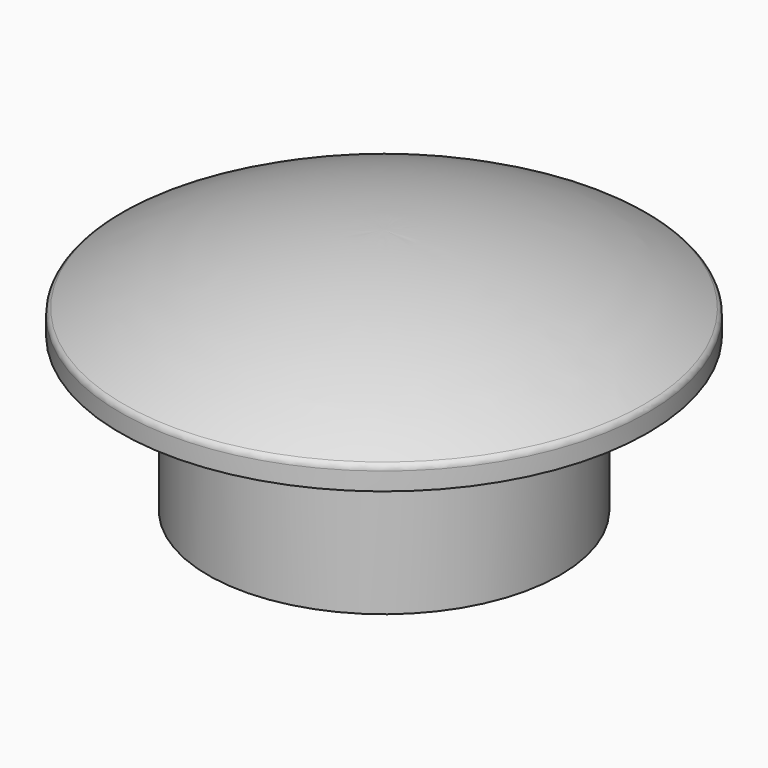
from build123d import *

# Parameters (mm, degrees)
F0_R     = 6.35
F1_DEPTH = 3.175
F4_R     = 0.254


with BuildPart() as f1:
    # F0 (on Top) → F1 (new body, symmetric)
    with BuildSketch(Plane.XY):
        Circle(F0_R)
    extrude(amount=F1_DEPTH, both=True)

    # F2 (on Front) → F3 (revolve)
    with BuildSketch(Plane.XZ):
        with BuildLine():
            Line((9.525, 2.38125), (9.525, 3.175))
            ThreePointArc((9.525, 3.175), (4.930503, 5.078103), (0, 5.727216))
            Line((0, 5.727216), (0, 2.38125))
            Line((0, 2.38125), (9.525, 2.38125))
        make_face()
    revolve(axis=Axis((0, 0, 4.054233), (0, 0, 1)))

    # F4
    f4_edges = [f1.edges().sort_by_distance(p)[0] for p in [
        (-9.525, 0, 3.175),
    ]]
    fillet(f4_edges, radius=F4_R)


solid = f1.part
